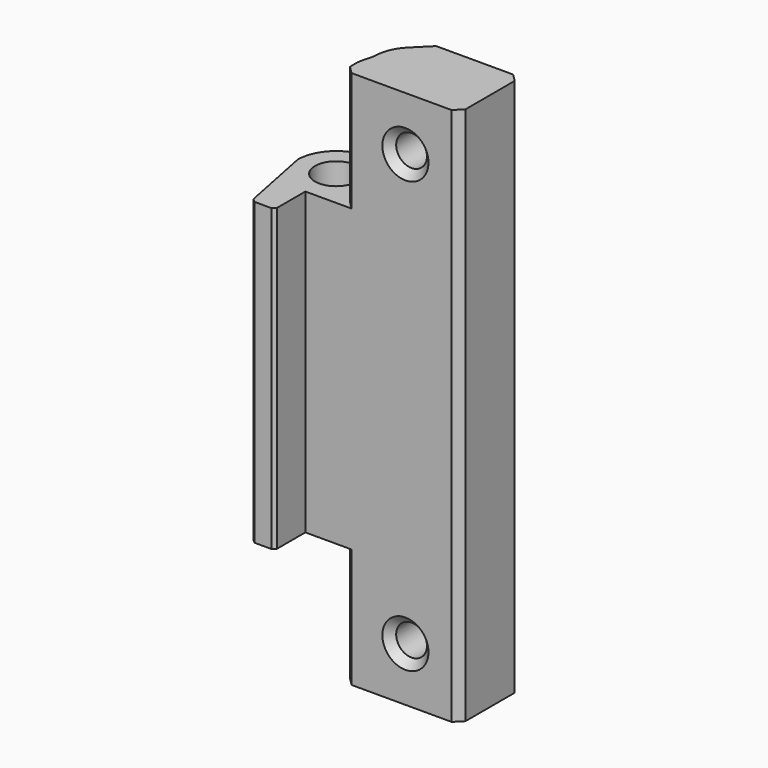
from build123d import *

# Parameters (mm, degrees)
SKETCH010_R             = 2.75
PAD005_DEPTH            = 35
SKETCH011_W             = 20
SKETCH011_H             = 10
POCKET005_DEPTH         = 167.158509
CHAMFER010_SIZE         = 0.4
SKETCH012_R             = 5.5
POCKET006_DEPTH         = 167.158509
CHAMFER011_SIZE         = 0.4
CHAMFER012_SIZE         = 1
SKETCH013_R             = 2
POCKET007_DEPTH         = 10.001
POCKET007_DEPTH_BACK    = 5.001
CHAMFER013_SIZE         = 1
CHAMFER020_SIZE         = 3
POCKET010_DEPTH         = 15.5
FILLET006_R             = 5
BODY004_PLACEMENT_ANGLE = 90


with BuildPart() as part:
    # Sketch010 → Pad005 (new body, symmetric)
    with BuildSketch(Plane.XY):
        with BuildLine():
            ThreePointArc((5, 0), (3.535534, 3.535534), (0, 5))
            Line((0, 5), (-10, 3))
            Line((-10, 3), (-10, 0))
            Line((-10, 0), (-5, 0))
            Line((-5, 0), (-5, -20))
            Line((-5, -20), (5, -20))
            Line((5, -20), (5, 0))
        make_face()
        Circle(SKETCH010_R, mode=Mode.SUBTRACT)
    extrude(amount=PAD005_DEPTH, both=True)

    # Sketch011 → Pocket005 (cut, through all)
    with BuildSketch(Plane.XY.offset(19.5)):
        with Locations((-5, 0)):
            Rectangle(SKETCH011_W, SKETCH011_H)
    pocket005 = extrude(amount=POCKET005_DEPTH, mode=Mode.SUBTRACT)

    # Mirrored: Pocket005 across XY
    add(pocket005.mirror(Plane.XY), mode=Mode.SUBTRACT)

    # Chamfer010
    chamfer010_edges = [part.edges().sort_by_distance(p)[0] for p in [
        (-10, 3, 0),
        (-10, 0, 0),
    ]]
    chamfer(chamfer010_edges, length=CHAMFER010_SIZE)

    # Sketch012 (on Face12 of Chamfer010) → Pocket006 (cut, through all)
    with BuildSketch(Plane.XY.offset(19.5)):
        Circle(SKETCH012_R)
    pocket006 = extrude(amount=POCKET006_DEPTH, mode=Mode.SUBTRACT)

    # Mirrored001: Pocket006 across XY
    add(pocket006.mirror(Plane.XY), mode=Mode.SUBTRACT)

    # Chamfer011
    chamfer011_edges = [part.edges().sort_by_distance(p)[0] for p in [
        (-2.291288, -5, -27.25),
        (2.291288, -5, -27.25),
        (2.291288, -5, 27.25),
        (-2.291288, -5, 27.25),
    ]]
    chamfer(chamfer011_edges, length=CHAMFER011_SIZE)

    # Chamfer012
    chamfer012_edges = [part.edges().sort_by_distance(p)[0] for p in [
        (-5, -5, 27.25),
        (5, -5, 27.25),
        (5, -5, -27.25),
        (-5, -5, -27.25),
        (-5, -20, 0),
        (5, -20, 0),
    ]]
    chamfer(chamfer012_edges, length=CHAMFER012_SIZE)

    # Sketch013 → Pocket007 (cut, two sides)
    with BuildSketch(Plane.YZ) as pocket007_sk:
        with Locations((-13, 28)):
            Circle(SKETCH013_R)
        with Locations((-13, -28)):
            Circle(SKETCH013_R)
    extrude(amount=-POCKET007_DEPTH, mode=Mode.SUBTRACT)
    extrude(pocket007_sk.sketch, amount=POCKET007_DEPTH_BACK, mode=Mode.SUBTRACT)

    # Chamfer013
    chamfer013_edges = [part.edges().sort_by_distance(p)[0] for p in [
        (-5, -15, -28),
        (-5, -15, 28),
    ]]
    chamfer(chamfer013_edges, length=CHAMFER013_SIZE)

    # Chamfer020
    chamfer020_edges = [part.edges().sort_by_distance(p)[0] for p in [
        (5, -15, -28),
        (5, -15, 28),
    ]]
    chamfer(chamfer020_edges, length=CHAMFER020_SIZE)

    # Sketch017 (on Face9 of Chamfer020) → Pocket010 (cut)
    with BuildSketch(Plane.XY.offset(35)):
        Polygon((5, -5), (1, -5), (5, -9), align=None)
    pocket010 = extrude(amount=-POCKET010_DEPTH, mode=Mode.SUBTRACT)

    # Mirrored002: Pocket010 across XY
    add(pocket010.mirror(Plane.XY), mode=Mode.SUBTRACT)

    # Fillet006
    fillet006_edges = [part.edges().sort_by_distance(p)[0] for p in [
        (1.335416, -5.335416, 27.25),
        (1.335416, -5.335416, -27.25),
    ]]
    fillet(fillet006_edges, radius=FILLET006_R)


with BuildPart() as part_1:
    # Body004 placement: moved
    add(part.part.rotate(Axis((0, 0, 0), (0, 0, 1)), BODY004_PLACEMENT_ANGLE))


solid = part_1.part
